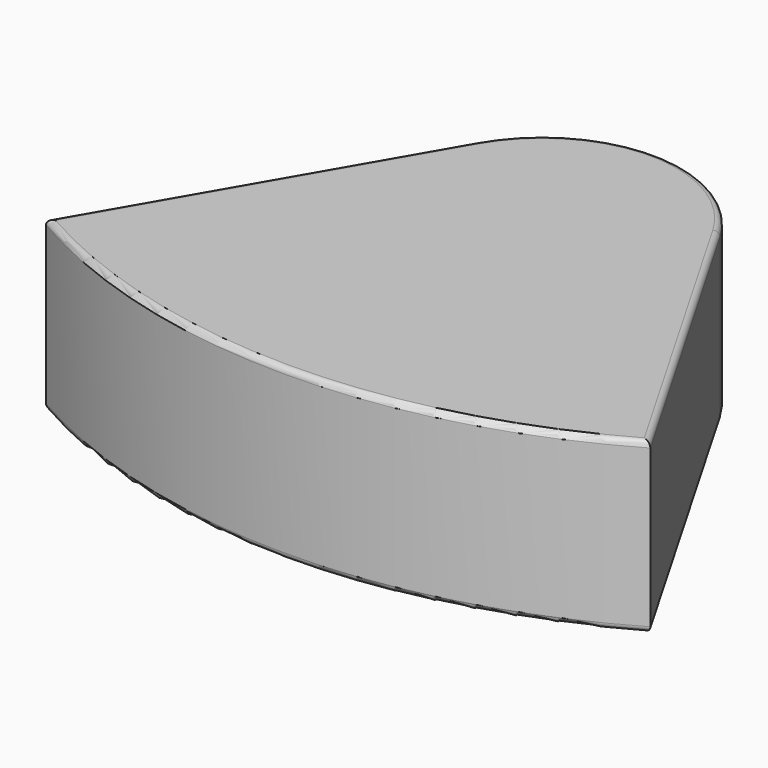
from build123d import *

# Parameters (mm, degrees)
F1_DEPTH = 6
F2_R     = 5
F3_R     = 0.2
F4_R     = 0.2


with BuildPart() as f1:
    # F0 (on Top) → F1 (new body)
    with BuildSketch(Plane.XY):
        with BuildLine():
            Line((10.75, -18.6195461814), (0, 0))
            Line((0, 0), (-10.75, -18.6195461814))
            ThreePointArc((-10.75, -18.6195461814), (0, -21.5), (10.75, -18.6195461814))
        make_face()
    extrude(amount=F1_DEPTH)

    # F2
    f2_edges = [f1.edges().sort_by_distance(p)[0] for p in [
        (0, 0, 3),
    ]]
    fillet(f2_edges, radius=F2_R)

    # F3
    f3_edges = [f1.edges().sort_by_distance(p)[0] for p in [
        (7.540064, -13.059773, 6),
        (0, -5, 6),
        (0, -21.5, 6),
        (-7.540064, -13.059773, 6),
    ]]
    fillet(f3_edges, radius=F3_R)

    # F4
    f4_edges = [f1.edges().sort_by_distance(p)[0] for p in [
        (7.540064, -13.059773, 0),
        (0, -5, 0),
        (0, -21.5, 0),
        (-7.540064, -13.059773, 0),
    ]]
    fillet(f4_edges, radius=F4_R)


solid = f1.part
